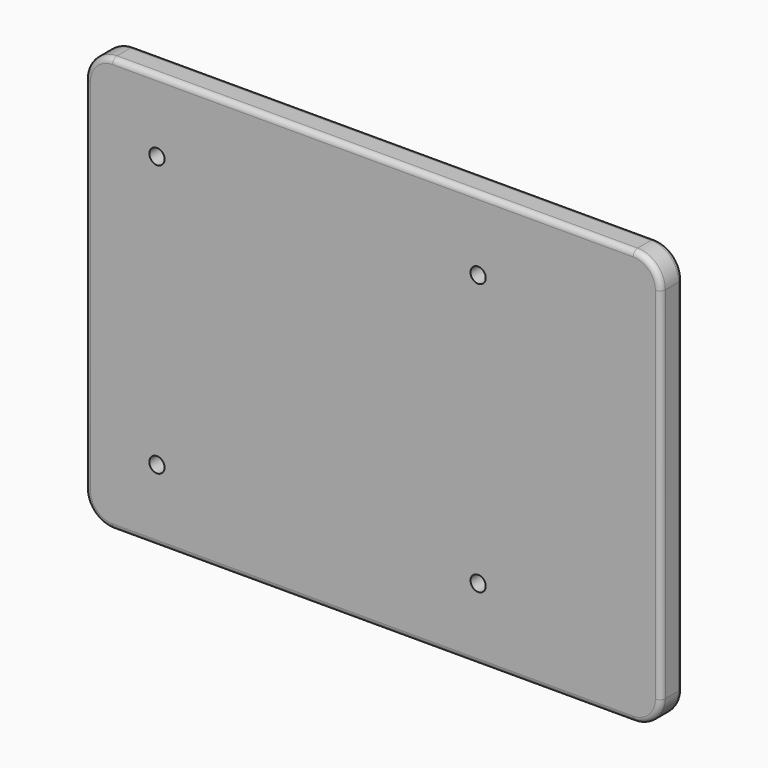
from build123d import *

# Parameters (mm, degrees)
F0_W     = 104
F0_H     = 75
F1_DEPTH = 5
F2_R     = 5
F4_D     = 2.75
F5_R     = 1
F6_R     = 1


with BuildPart() as f1:
    # F0 (on Front) → F1 (new body)
    with BuildSketch(Plane.XZ):
        Rectangle(F0_W, F0_H)
    extrude(amount=-F1_DEPTH)

    # F2
    f2_edges = [f1.edges().sort_by_distance(p)[0] for p in [
        (-52, 2.5, 37.5),
        (52, 2.5, 37.5),
        (52, 2.5, -37.5),
        (-52, 2.5, -37.5),
    ]]
    fillet(f2_edges, radius=F2_R)

    # F4 (through all)
    with Locations(Plane.XZ):
        with Locations((-39, 24.5), (19, 24.5), (19, -24.5), (-39, -24.5)):
            Hole(F4_D / 2)

    # F5
    f5_edges = [f1.edges().sort_by_distance(p)[0] for p in [
        (-52, 5, 0),
    ]]
    fillet(f5_edges, radius=F5_R)

    # F6
    f6_edges = [f1.edges().sort_by_distance(p)[0] for p in [
        (0, 0, 37.5),
    ]]
    fillet(f6_edges, radius=F6_R)


solid = f1.part
